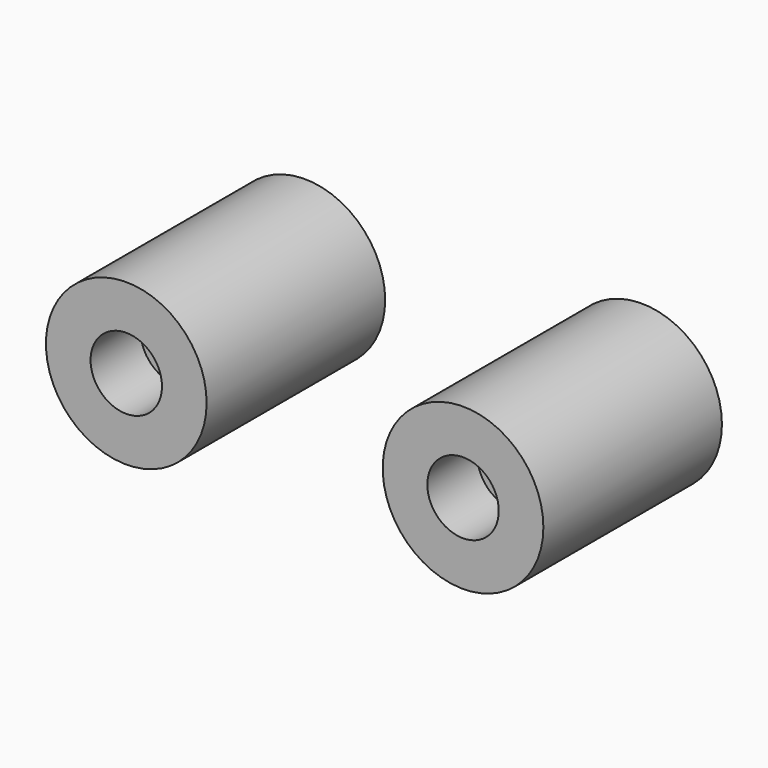
from build123d import *

# Parameters (mm, degrees)
F0_R     = 9
F0_R_2   = 3
F0_R_3   = 2.5
F1_DEPTH = 25
F2_R     = 4
F3_DEPTH = 7
F4_R     = 4
F5_DEPTH = 7


with BuildPart() as f1:
    # F0 (on Front) → F1 (new body)
    with BuildSketch(Plane.XZ):
        with Locations((-19.5345, 0)):
            Circle(F0_R)
        with Locations((-19.5345, 0)):
            Circle(F0_R_2, mode=Mode.SUBTRACT)
        with Locations((18.187296, 0)):
            Circle(F0_R)
        with Locations((18.187296, 0)):
            Circle(F0_R_3, mode=Mode.SUBTRACT)
    extrude(amount=F1_DEPTH)

    # F2 (on face) → F3 (cut)
    with BuildSketch(Plane.XZ.offset(25)):
        with Locations((-19.5345, 0)):
            Circle(F2_R)
    extrude(amount=-F3_DEPTH, mode=Mode.SUBTRACT)

    # F4 (on face) → F5 (cut)
    with BuildSketch(Plane.XZ.offset(25)):
        with Locations((18.187296, 0)):
            Circle(F4_R)
    extrude(amount=-F5_DEPTH, mode=Mode.SUBTRACT)


solid = f1.part
